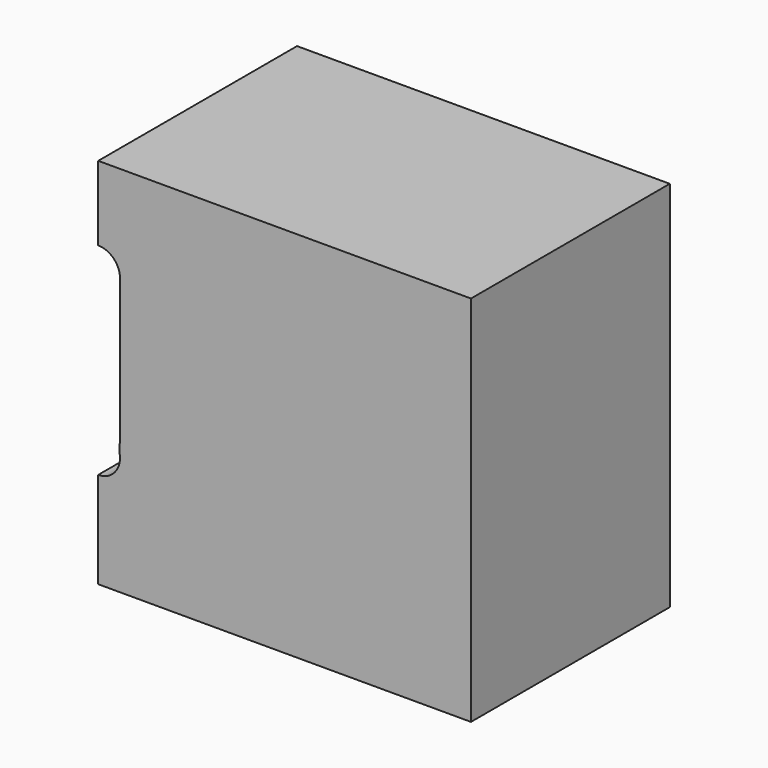
from build123d import *

# Parameters (mm, degrees)
F0_W     = 38.1
F0_H     = 38.1
F1_DEPTH = 25.4
F3_DEPTH = 25.401


with BuildPart() as f1:
    # F0 (on Front) → F1 (new body)
    with BuildSketch(Plane.XZ):
        with Locations((19.05, 0)):
            Rectangle(F0_W, F0_H)
    extrude(amount=F1_DEPTH)

    # F2 (on Front) → F3 (cut, through all)
    with BuildSketch(Plane.XZ):
        with BuildLine():
            Line((2.222374, 9.23115), (2.222291, 9.177008))
            ThreePointArc((2.222291, 9.177008), (2.222497, 9.204079), (2.222374, 9.23115))
        make_face()
        with BuildLine():
            Line((2.197918, -6.655362), (2.222291, 9.177008))
            Line((2.222291, 9.177008), (2.222374, 9.23115))
            ThreePointArc((2.222374, 9.23115), (1.563161, 10.787384), (0, 11.43))
            Line((0, 11.43), (0, -9.2075))
            ThreePointArc((0, -9.2075), (1.684061, -8.435325), (2.197918, -6.655362))
        make_face()
    extrude(amount=F3_DEPTH, mode=Mode.SUBTRACT)


solid = f1.part
